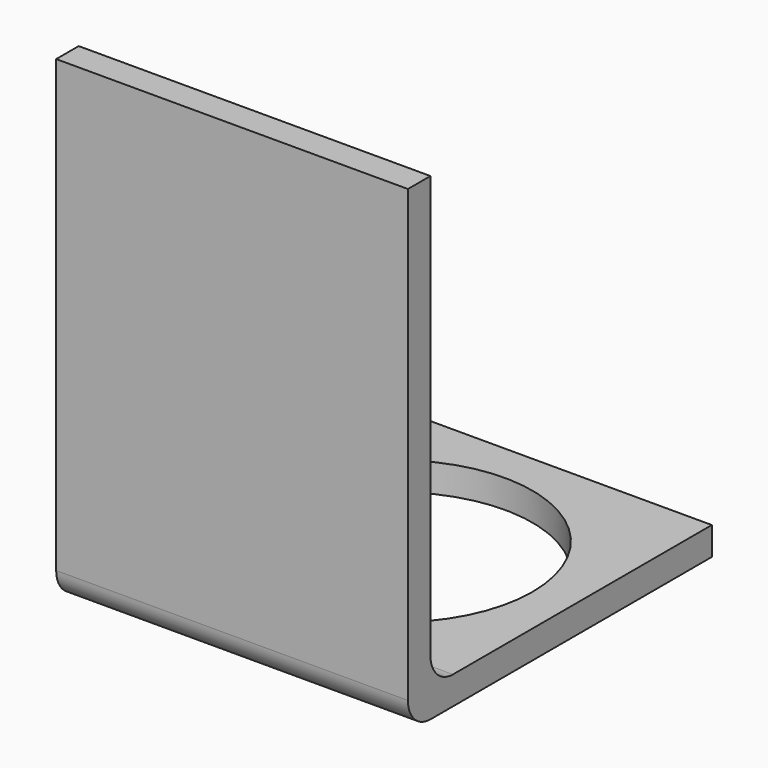
from build123d import *

# Parameters (mm, degrees)
F0_W     = 25
F0_H     = 34
F1_DEPTH = 2
F2_W     = 25
F2_H     = 25
F3_DEPTH = 2
F4_R     = 9.75
F5_DEPTH = 2.001
F6_R     = 2


with BuildPart() as f1:
    # F0 (on Front) → F1 (new body)
    with BuildSketch(Plane.XZ):
        with Locations((0, 17)):
            Rectangle(F0_W, F0_H)
    extrude(amount=F1_DEPTH)

    # F2 (on Top) → F3 (join)
    with BuildSketch(Plane.XY):
        with Locations((0, 12.5)):
            Rectangle(F2_W, F2_H)
    extrude(amount=F3_DEPTH)

    # F4 (on face) → F5 (cut, through all)
    with BuildSketch(Plane.XY.offset(2)):
        with Locations((0, 12.5)):
            Circle(F4_R)
    extrude(amount=-F5_DEPTH, mode=Mode.SUBTRACT)

    # F6
    f6_edges = [f1.edges().sort_by_distance(p)[0] for p in [
        (0, -2, 0),
        (0, 0, 2),
    ]]
    fillet(f6_edges, radius=F6_R)


solid = f1.part
